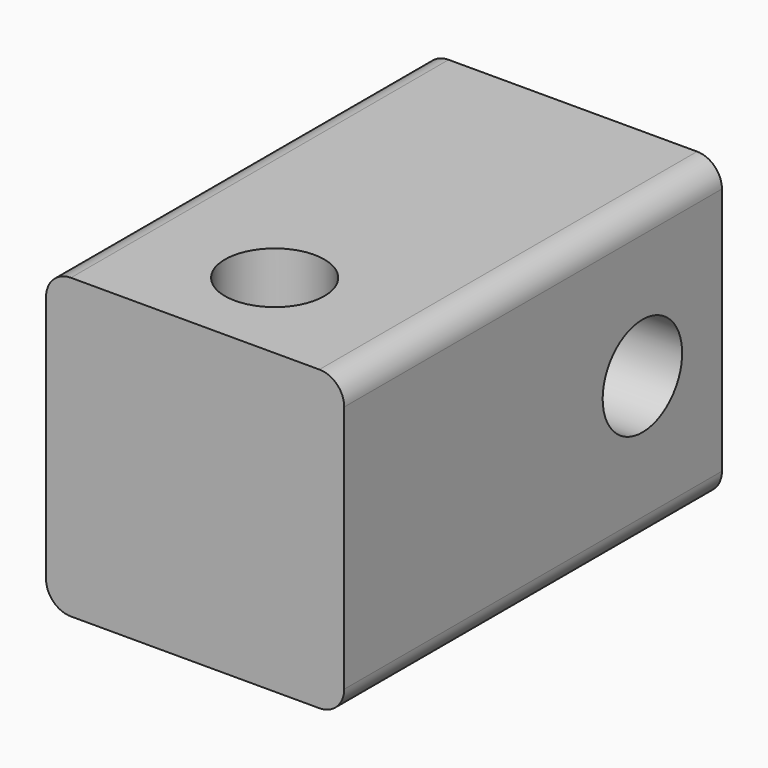
from build123d import *

# Parameters (mm, degrees)
F1_DEPTH = 30.1625
F2_R     = 3.175
F3_DEPTH = 19.051
F4_R     = 3.175
F5_DEPTH = 19.051


with BuildPart() as f1:
    # F0 (on Front) → F1 (new body)
    with BuildSketch(Plane.XZ):
        with BuildLine():
            ThreePointArc((9.525, 7.9375), (9.060032, 9.060032), (7.9375, 9.525))
            Line((7.9375, 9.525), (-7.9375, 9.525))
            ThreePointArc((-7.9375, 9.525), (-9.060032, 9.060032), (-9.525, 7.9375))
            Line((-9.525, 7.9375), (-9.525, -7.9375))
            ThreePointArc((-9.525, -7.9375), (-9.060032, -9.060032), (-7.9375, -9.525))
            Line((-7.9375, -9.525), (7.9375, -9.525))
            ThreePointArc((7.9375, -9.525), (9.060032, -9.060032), (9.525, -7.9375))
            Line((9.525, -7.9375), (9.525, 7.9375))
        make_face()
    extrude(amount=F1_DEPTH)

    # F2 (on face) → F3 (cut, through all)
    with BuildSketch(Plane.XY.offset(9.525)):
        with Locations((0, -23.8125)):
            Circle(F2_R)
    extrude(amount=-F3_DEPTH, mode=Mode.SUBTRACT)

    # F4 (on face) → F5 (cut, through all)
    with BuildSketch(Plane(origin=(-9.525, 0, 0), x_dir=(0, -1, 0), z_dir=(-1, 0, 0))):
        with Locations((6.35, 0)):
            Circle(F4_R)
    extrude(amount=-F5_DEPTH, mode=Mode.SUBTRACT)


solid = f1.part
